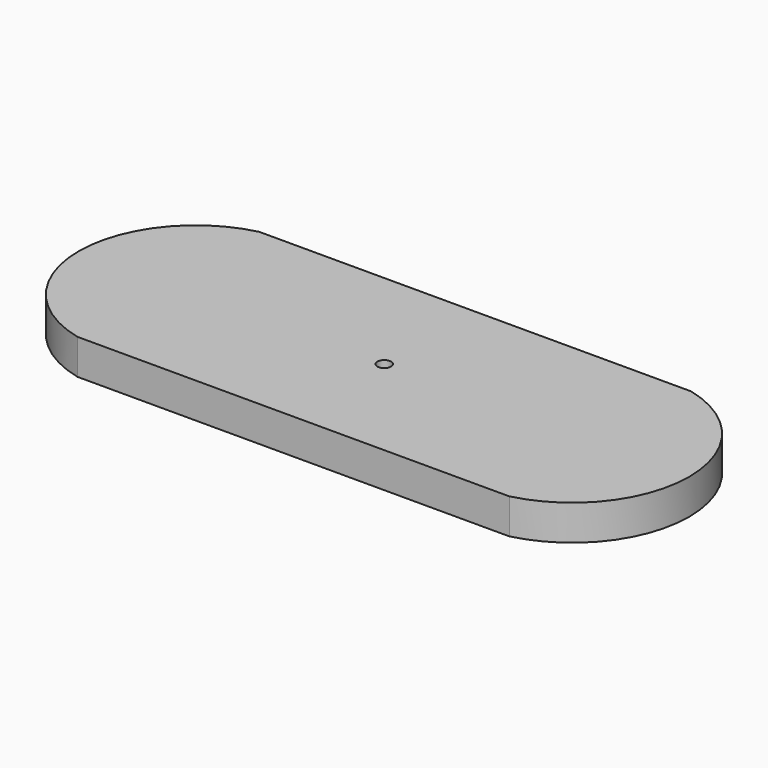
from build123d import *

# Parameters (mm, degrees)
F0_R     = 0.4
F1_DEPTH = 1
F2_R     = 0.3
F3_DEPTH = 0.55


with BuildPart() as f1:
    # F0 (on Top) → F1 (new body)
    with BuildSketch(Plane.XY):
        with BuildLine():
            Line((-9.5, -5), (9.5, -5))
            ThreePointArc((9.5, -5), (13.418354, 0), (9.5, 5))
            Line((9.5, 5), (-9.5, 5))
            ThreePointArc((-9.5, 5), (-13.44077, 0), (-9.5, -5))
        make_face()
        Circle(F0_R, mode=Mode.SUBTRACT)
    extrude(amount=F1_DEPTH)

    # F2 (on face) → F3 (join)
    with BuildSketch(Plane.XY.offset(1)):
        with BuildLine():
            Line((9.5, 5), (-9.5, 5))
            ThreePointArc((-9.5, 5), (-13.44077, 0), (-9.5, -5))
            Line((-9.5, -5), (9.5, -5))
            ThreePointArc((9.5, -5), (13.418354, 0), (9.5, 5))
        make_face()
        Circle(F2_R, mode=Mode.SUBTRACT)
    extrude(amount=F3_DEPTH)


solid = f1.part
